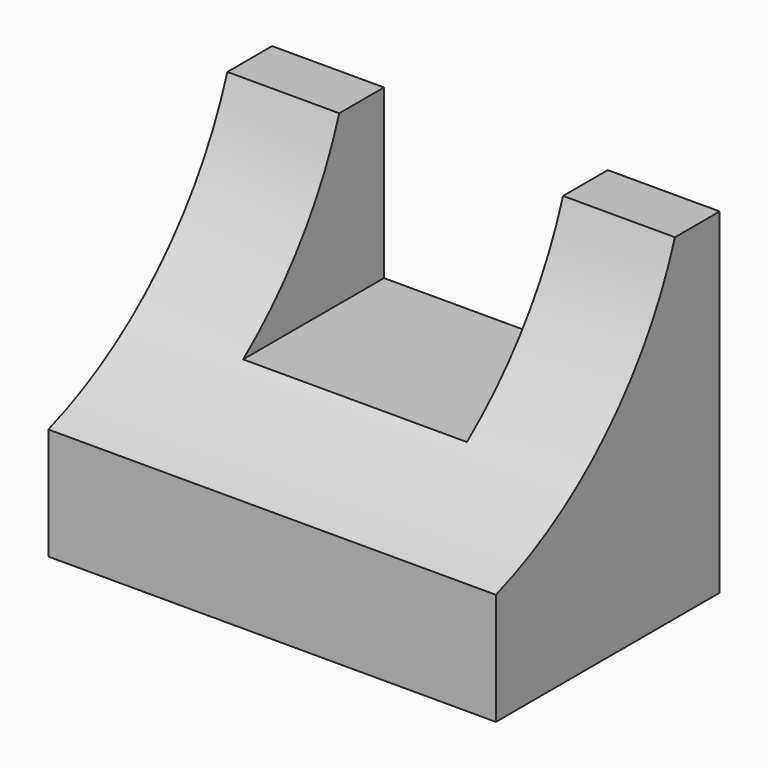
from build123d import *

# Parameters (mm, degrees)
F0_W     = 50.8
F0_H     = 38.1
F1_DEPTH = 31.75
F3_DEPTH = 50.801
F4_W     = 25.4
F4_H     = 19.05
F5_DEPTH = 31.751


with BuildPart() as f1:
    # F0 (on Front) → F1 (new body)
    with BuildSketch(Plane.XZ):
        with Locations((-34.38605, 26.091824)):
            Rectangle(F0_W, F0_H)
    extrude(amount=F1_DEPTH)

    # F2 (on face) → F3 (cut, through all)
    with BuildSketch(Plane.YZ.offset(-8.98605)):
        with BuildLine():
            Line((-31.75, 45.141824), (-31.75, 19.741824))
            ThreePointArc((-31.75, 19.741824), (-16.111006, 29.50283), (-6.35, 45.141824))
            Line((-6.35, 45.141824), (-31.75, 45.141824))
        make_face()
    extrude(amount=-F3_DEPTH, mode=Mode.SUBTRACT)

    # F4 (on face) → F5 (cut, through all)
    with BuildSketch(Plane(origin=(0, 0, 0), x_dir=(-1, 0, 0), z_dir=(0, 1, 0))):
        with Locations((34.38605, 35.616824)):
            Rectangle(F4_W, F4_H)
    extrude(amount=-F5_DEPTH, mode=Mode.SUBTRACT)


solid = f1.part
